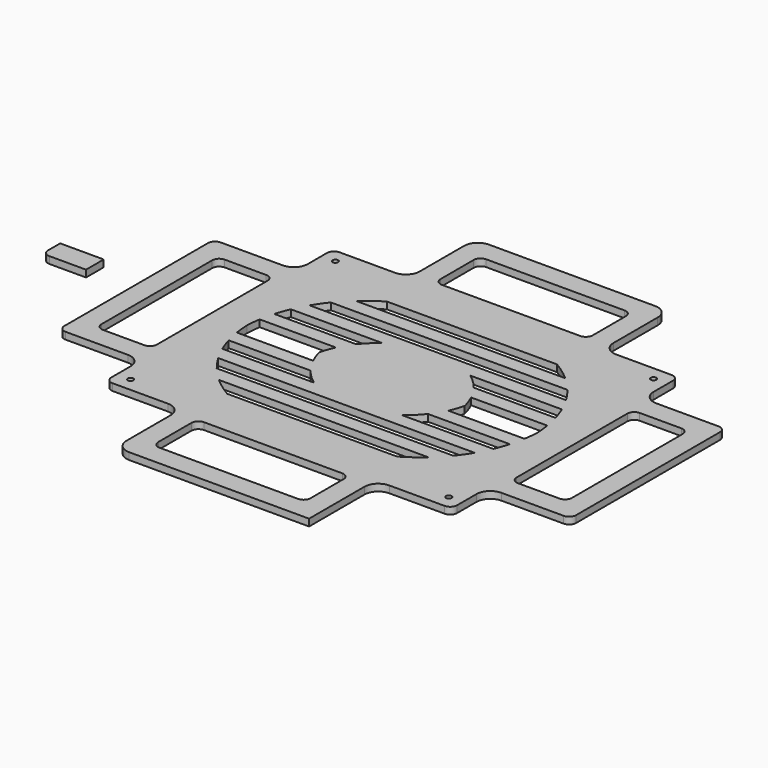
from build123d import *

# Parameters (mm, degrees)
F0_R     = 2
F1_DEPTH = 5


with BuildPart() as f1:
    # F0 (on Top) → F1 (new body)
    with BuildSketch(Plane.XY):
        with BuildLine():
            Line((-195, 132.511114), (-230, 132.511114))
            Line((-230, 132.511114), (-235, 132.511114))
            ThreePointArc((-235, 132.511114), (-238.535534, 131.046648), (-240, 127.511114))
            Line((-240, 127.511114), (-240, 110.011114))
            ThreePointArc((-240, 110.011114), (-242.928932, 102.940046), (-250, 100.011114))
            Line((-250, 100.011114), (-290, 100.011114))
            Line((-290, 100.011114), (-295, 100.011114))
            ThreePointArc((-295, 100.011114), (-298.535534, 98.546648), (-300, 95.011114))
            Line((-300, 95.011114), (-300, -34.988886))
            ThreePointArc((-300, -34.988886), (-298.535534, -38.52442), (-295, -39.988886))
            Line((-295, -39.988886), (-290, -39.988886))
            Line((-290, -39.988886), (-271.565944, -39.988886))
            Line((-271.565944, -39.988886), (-250, -39.988886))
            ThreePointArc((-250, -39.988886), (-242.928932, -42.917818), (-240, -49.988886))
            Line((-240, -49.988886), (-240, -67.488886))
            ThreePointArc((-240, -67.488886), (-238.535534, -71.02442), (-235, -72.488886))
            Line((-235, -72.488886), (-195, -72.488886))
            ThreePointArc((-195, -72.488886), (-187.928932, -75.417818), (-185, -82.488886))
            Line((-185, -82.488886), (-185, -122.488886))
            ThreePointArc((-185, -122.488886), (-182.071068, -129.559954), (-175, -132.488886))
            Line((-175, -132.488886), (-115, -132.488886))
            Line((-115, -132.488886), (-55, -132.488886))
            ThreePointArc((-55, -132.488886), (-47.928932, -129.559954), (-45, -122.488886))
            Line((-45, -122.488886), (-45, -82.488886))
            ThreePointArc((-45, -82.488886), (-42.071068, -75.417818), (-35, -72.488886))
            Line((-35, -72.488886), (5, -72.488886))
            ThreePointArc((5, -72.488886), (8.535534, -71.02442), (10, -67.488886))
            Line((10, -67.488886), (10, -49.988886))
            ThreePointArc((10, -49.988886), (12.928932, -42.917818), (20, -39.988886))
            Line((20, -39.988886), (41.565944, -39.988886))
            Line((41.565944, -39.988886), (60, -39.988886))
            Line((60, -39.988886), (65, -39.988886))
            ThreePointArc((65, -39.988886), (68.535534, -38.52442), (70, -34.988886))
            Line((70, -34.988886), (70, 95.011114))
            ThreePointArc((70, 95.011114), (68.535534, 98.546648), (65, 100.011114))
            Line((65, 100.011114), (60, 100.011114))
            Line((60, 100.011114), (20, 100.011114))
            ThreePointArc((20, 100.011114), (12.928932, 102.940046), (10, 110.011114))
            Line((10, 110.011114), (10, 127.511114))
            ThreePointArc((10, 127.511114), (8.535534, 131.046648), (5, 132.511114))
            Line((5, 132.511114), (0, 132.511114))
            Line((0, 132.511114), (-35, 132.511114))
            ThreePointArc((-35, 132.511114), (-42.071068, 135.440046), (-45, 142.511114))
            Line((-45, 142.511114), (-45, 182.511114))
            ThreePointArc((-45, 182.511114), (-47.928932, 189.582182), (-55, 192.511114))
            Line((-55, 192.511114), (-115, 192.511114))
            Line((-115, 192.511114), (-175, 192.511114))
            ThreePointArc((-175, 192.511114), (-182.071068, 189.582182), (-185, 182.511114))
            Line((-185, 182.511114), (-185, 142.511114))
            ThreePointArc((-185, 142.511114), (-187.928932, 135.440046), (-195, 132.511114))
        make_face()
        with Locations((-230, -62.488886)):
            Circle(F0_R, mode=Mode.SUBTRACT)
        with BuildLine():
            ThreePointArc((-280, -24.988886), (-283.535534, -23.52442), (-285, -19.988886))
            Line((-285, -19.988886), (-285, 80.011114))
            ThreePointArc((-285, 80.011114), (-283.535534, 83.546648), (-280, 85.011114))
            Line((-280, 85.011114), (-250, 85.011114))
            ThreePointArc((-250, 85.011114), (-246.464466, 83.546648), (-245, 80.011114))
            Line((-245, 80.011114), (-245, 68.697795))
            Line((-245, 68.697795), (-245, -19.988886))
            ThreePointArc((-245, -19.988886), (-246.464466, -23.52442), (-250, -24.988886))
            Line((-250, -24.988886), (-280, -24.988886))
        make_face(mode=Mode.SUBTRACT)
        with BuildLine():
            ThreePointArc((-212.941912, -0.926386), (-214.946177, 4.17242), (-216.62912, 9.386114))
            Line((-216.62912, 9.386114), (-167.5, 9.386114))
            Line((-167.5, 9.386114), (-157.467819, 9.386114))
            ThreePointArc((-157.467819, 9.386114), (-152.46576, 3.859363), (-146.750677, -0.926386))
            Line((-146.750677, -0.926386), (-167.5, -0.926386))
            Line((-167.5, -0.926386), (-212.941912, -0.926386))
        make_face(mode=Mode.SUBTRACT)
        with BuildLine():
            Line((-167.5, 19.698614), (-218.945661, 19.698614))
            ThreePointArc((-218.945661, 19.698614), (-219.624886, 24.839318), (-220, 30.011114))
            ThreePointArc((-220, 30.011114), (-219.624886, 35.18291), (-218.945661, 40.323614))
            Line((-218.945661, 40.323614), (-167.5, 40.323614))
            Line((-167.5, 40.323614), (-163.849058, 40.323614))
            ThreePointArc((-163.849058, 40.323614), (-165.936184, 35.259998), (-167.5, 30.011114))
            ThreePointArc((-167.5, 30.011114), (-165.936184, 24.76223), (-163.849058, 19.698614))
            Line((-163.849058, 19.698614), (-167.5, 19.698614))
        make_face(mode=Mode.SUBTRACT)
        with BuildLine():
            Line((-65, -117.488886), (-165, -117.488886))
            ThreePointArc((-165, -117.488886), (-168.535534, -116.02442), (-170, -112.488886))
            Line((-170, -112.488886), (-170, -82.488886))
            ThreePointArc((-170, -82.488886), (-168.535534, -78.953352), (-165, -77.488886))
            Line((-165, -77.488886), (-65, -77.488886))
            ThreePointArc((-65, -77.488886), (-61.464466, -78.953352), (-60, -82.488886))
            Line((-60, -82.488886), (-60, -112.488886))
            ThreePointArc((-60, -112.488886), (-61.464466, -116.02442), (-65, -117.488886))
        make_face(mode=Mode.SUBTRACT)
        with Locations((0, -62.488886)):
            Circle(F0_R, mode=Mode.SUBTRACT)
        with BuildLine():
            ThreePointArc((-176.466621, -42.176386), (-183.821785, -37.37496), (-190.661389, -31.863886))
            Line((-190.661389, -31.863886), (-115, -31.863886))
            Line((-115, -31.863886), (-39.338611, -31.863886))
            ThreePointArc((-39.338611, -31.863886), (-46.178215, -37.37496), (-53.533379, -42.176386))
            Line((-53.533379, -42.176386), (-115, -42.176386))
            Line((-115, -42.176386), (-176.466621, -42.176386))
        make_face(mode=Mode.SUBTRACT)
        with BuildLine():
            ThreePointArc((-200.49278, -21.551386), (-204.272698, -16.523777), (-207.683644, -11.238886))
            Line((-207.683644, -11.238886), (-167.5, -11.238886))
            Line((-167.5, -11.238886), (-115, -11.238886))
            Line((-115, -11.238886), (-62.5, -11.238886))
            Line((-62.5, -11.238886), (-22.316356, -11.238886))
            ThreePointArc((-22.316356, -11.238886), (-25.727302, -16.523777), (-29.50722, -21.551386))
            Line((-29.50722, -21.551386), (-115, -21.551386))
            Line((-115, -21.551386), (-200.49278, -21.551386))
        make_face(mode=Mode.SUBTRACT)
        with BuildLine():
            ThreePointArc((-83.249323, -0.926386), (-77.53424, 3.859363), (-72.532181, 9.386114))
            Line((-72.532181, 9.386114), (-62.5, 9.386114))
            Line((-62.5, 9.386114), (-13.37088, 9.386114))
            ThreePointArc((-13.37088, 9.386114), (-15.053823, 4.17242), (-17.058088, -0.926386))
            Line((-17.058088, -0.926386), (-62.5, -0.926386))
            Line((-62.5, -0.926386), (-83.249323, -0.926386))
        make_face(mode=Mode.SUBTRACT)
        with BuildLine():
            Line((-62.5, 19.698614), (-66.150942, 19.698614))
            ThreePointArc((-66.150942, 19.698614), (-64.063816, 24.76223), (-62.5, 30.011114))
            ThreePointArc((-62.5, 30.011114), (-64.063816, 35.259998), (-66.150942, 40.323614))
            Line((-66.150942, 40.323614), (-62.5, 40.323614))
            Line((-62.5, 40.323614), (-11.054339, 40.323614))
            ThreePointArc((-11.054339, 40.323614), (-10.375114, 35.18291), (-10, 30.011114))
            ThreePointArc((-10, 30.011114), (-10.375114, 24.839318), (-11.054339, 19.698614))
            Line((-11.054339, 19.698614), (-62.5, 19.698614))
        make_face(mode=Mode.SUBTRACT)
        with BuildLine():
            Line((50, -24.988886), (20, -24.988886))
            ThreePointArc((20, -24.988886), (16.464466, -23.52442), (15, -19.988886))
            Line((15, -19.988886), (15, 68.697795))
            Line((15, 68.697795), (15, 80.011114))
            ThreePointArc((15, 80.011114), (16.464466, 83.546648), (20, 85.011114))
            Line((20, 85.011114), (50, 85.011114))
            ThreePointArc((50, 85.011114), (53.535534, 83.546648), (55, 80.011114))
            Line((55, 80.011114), (55, -19.988886))
            ThreePointArc((55, -19.988886), (53.535534, -23.52442), (50, -24.988886))
        make_face(mode=Mode.SUBTRACT)
        with BuildLine():
            ThreePointArc((-216.62912, 50.636114), (-214.946177, 55.849808), (-212.941912, 60.948614))
            Line((-212.941912, 60.948614), (-167.5, 60.948614))
            Line((-167.5, 60.948614), (-146.750677, 60.948614))
            ThreePointArc((-146.750677, 60.948614), (-152.46576, 56.162865), (-157.467819, 50.636114))
            Line((-157.467819, 50.636114), (-167.5, 50.636114))
            Line((-167.5, 50.636114), (-216.62912, 50.636114))
        make_face(mode=Mode.SUBTRACT)
        with Locations((-230, 122.511114)):
            Circle(F0_R, mode=Mode.SUBTRACT)
        with BuildLine():
            Line((-62.5, 60.948614), (-17.058088, 60.948614))
            ThreePointArc((-17.058088, 60.948614), (-15.053823, 55.849808), (-13.37088, 50.636114))
            Line((-13.37088, 50.636114), (-62.5, 50.636114))
            Line((-62.5, 50.636114), (-72.532181, 50.636114))
            ThreePointArc((-72.532181, 50.636114), (-77.53424, 56.162865), (-83.249323, 60.948614))
            Line((-83.249323, 60.948614), (-62.5, 60.948614))
        make_face(mode=Mode.SUBTRACT)
        with BuildLine():
            Line((-167.5, 71.261114), (-207.683644, 71.261114))
            ThreePointArc((-207.683644, 71.261114), (-204.272698, 76.546006), (-200.49278, 81.573614))
            Line((-200.49278, 81.573614), (-115, 81.573614))
            Line((-115, 81.573614), (-29.50722, 81.573614))
            ThreePointArc((-29.50722, 81.573614), (-25.727302, 76.546006), (-22.316356, 71.261114))
            Line((-22.316356, 71.261114), (-62.5, 71.261114))
            Line((-62.5, 71.261114), (-115, 71.261114))
            Line((-115, 71.261114), (-167.5, 71.261114))
        make_face(mode=Mode.SUBTRACT)
        with BuildLine():
            ThreePointArc((-190.661389, 91.886114), (-183.821785, 97.397188), (-176.466621, 102.198614))
            Line((-176.466621, 102.198614), (-115, 102.198614))
            Line((-115, 102.198614), (-53.533379, 102.198614))
            ThreePointArc((-53.533379, 102.198614), (-46.178215, 97.397188), (-39.338611, 91.886114))
            Line((-39.338611, 91.886114), (-115, 91.886114))
            Line((-115, 91.886114), (-190.661389, 91.886114))
        make_face(mode=Mode.SUBTRACT)
        with BuildLine():
            Line((-170, 142.511114), (-170, 172.511114))
            ThreePointArc((-170, 172.511114), (-168.535534, 176.046648), (-165, 177.511114))
            Line((-165, 177.511114), (-65, 177.511114))
            ThreePointArc((-65, 177.511114), (-61.464466, 176.046648), (-60, 172.511114))
            Line((-60, 172.511114), (-60, 142.511114))
            ThreePointArc((-60, 142.511114), (-61.464466, 138.97558), (-65, 137.511114))
            Line((-65, 137.511114), (-165, 137.511114))
            ThreePointArc((-165, 137.511114), (-168.535534, 138.97558), (-170, 142.511114))
        make_face(mode=Mode.SUBTRACT)
        with Locations((0, 122.511114)):
            Circle(F0_R, mode=Mode.SUBTRACT)
        with BuildLine():
            ThreePointArc((-45, -122.488886), (-47.928932, -129.559954), (-55, -132.488886))
            Line((-55, -132.488886), (-45, -132.488886))
            Line((-45, -132.488886), (-45, -122.488886))
        make_face()
        with BuildLine():
            ThreePointArc((-364.925385, 31.536784), (-363.460918, 28.00125), (-359.925385, 26.536784))
            Line((-359.925385, 26.536784), (-333.444332, 26.536784))
            Line((-333.444332, 26.536784), (-333.444332, 42.530593))
            Line((-333.444332, 42.530593), (-364.925385, 42.530593))
            Line((-364.925385, 42.530593), (-364.925385, 31.536784))
        make_face()
        with BuildLine():
            Line((-195, 132.511114), (-230, 132.511114))
            Line((-230, 132.511114), (-235, 132.511114))
            ThreePointArc((-235, 132.511114), (-238.535534, 131.046648), (-240, 127.511114))
            Line((-240, 127.511114), (-240, 110.011114))
            ThreePointArc((-240, 110.011114), (-242.928932, 102.940046), (-250, 100.011114))
            Line((-250, 100.011114), (-290, 100.011114))
            Line((-290, 100.011114), (-295, 100.011114))
            ThreePointArc((-295, 100.011114), (-298.535534, 98.546648), (-300, 95.011114))
            Line((-300, 95.011114), (-300, -34.988886))
            ThreePointArc((-300, -34.988886), (-298.535534, -38.52442), (-295, -39.988886))
            Line((-295, -39.988886), (-290, -39.988886))
            Line((-290, -39.988886), (-271.565944, -39.988886))
            Line((-271.565944, -39.988886), (-250, -39.988886))
            ThreePointArc((-250, -39.988886), (-242.928932, -42.917818), (-240, -49.988886))
            Line((-240, -49.988886), (-240, -67.488886))
            ThreePointArc((-240, -67.488886), (-238.535534, -71.02442), (-235, -72.488886))
            Line((-235, -72.488886), (-195, -72.488886))
            ThreePointArc((-195, -72.488886), (-187.928932, -75.417818), (-185, -82.488886))
            Line((-185, -82.488886), (-185, -122.488886))
            ThreePointArc((-185, -122.488886), (-182.071068, -129.559954), (-175, -132.488886))
            Line((-175, -132.488886), (-115, -132.488886))
            Line((-115, -132.488886), (-55, -132.488886))
            ThreePointArc((-55, -132.488886), (-47.928932, -129.559954), (-45, -122.488886))
            Line((-45, -122.488886), (-45, -82.488886))
            ThreePointArc((-45, -82.488886), (-42.071068, -75.417818), (-35, -72.488886))
            Line((-35, -72.488886), (5, -72.488886))
            ThreePointArc((5, -72.488886), (8.535534, -71.02442), (10, -67.488886))
            Line((10, -67.488886), (10, -49.988886))
            ThreePointArc((10, -49.988886), (12.928932, -42.917818), (20, -39.988886))
            Line((20, -39.988886), (41.565944, -39.988886))
            Line((41.565944, -39.988886), (60, -39.988886))
            Line((60, -39.988886), (65, -39.988886))
            ThreePointArc((65, -39.988886), (68.535534, -38.52442), (70, -34.988886))
            Line((70, -34.988886), (70, 95.011114))
            ThreePointArc((70, 95.011114), (68.535534, 98.546648), (65, 100.011114))
            Line((65, 100.011114), (60, 100.011114))
            Line((60, 100.011114), (20, 100.011114))
            ThreePointArc((20, 100.011114), (12.928932, 102.940046), (10, 110.011114))
            Line((10, 110.011114), (10, 127.511114))
            ThreePointArc((10, 127.511114), (8.535534, 131.046648), (5, 132.511114))
            Line((5, 132.511114), (0, 132.511114))
            Line((0, 132.511114), (-35, 132.511114))
            ThreePointArc((-35, 132.511114), (-42.071068, 135.440046), (-45, 142.511114))
            Line((-45, 142.511114), (-45, 182.511114))
            ThreePointArc((-45, 182.511114), (-47.928932, 189.582182), (-55, 192.511114))
            Line((-55, 192.511114), (-115, 192.511114))
            Line((-115, 192.511114), (-175, 192.511114))
            ThreePointArc((-175, 192.511114), (-182.071068, 189.582182), (-185, 182.511114))
            Line((-185, 182.511114), (-185, 142.511114))
            ThreePointArc((-185, 142.511114), (-187.928932, 135.440046), (-195, 132.511114))
        make_face()
        with Locations((-230, -62.488886)):
            Circle(F0_R, mode=Mode.SUBTRACT)
        with BuildLine():
            ThreePointArc((-280, -24.988886), (-283.535534, -23.52442), (-285, -19.988886))
            Line((-285, -19.988886), (-285, 80.011114))
            ThreePointArc((-285, 80.011114), (-283.535534, 83.546648), (-280, 85.011114))
            Line((-280, 85.011114), (-250, 85.011114))
            ThreePointArc((-250, 85.011114), (-246.464466, 83.546648), (-245, 80.011114))
            Line((-245, 80.011114), (-245, 68.697795))
            Line((-245, 68.697795), (-245, -19.988886))
            ThreePointArc((-245, -19.988886), (-246.464466, -23.52442), (-250, -24.988886))
            Line((-250, -24.988886), (-280, -24.988886))
        make_face(mode=Mode.SUBTRACT)
        with BuildLine():
            ThreePointArc((-212.941912, -0.926386), (-214.946177, 4.17242), (-216.62912, 9.386114))
            Line((-216.62912, 9.386114), (-167.5, 9.386114))
            Line((-167.5, 9.386114), (-157.467819, 9.386114))
            ThreePointArc((-157.467819, 9.386114), (-152.46576, 3.859363), (-146.750677, -0.926386))
            Line((-146.750677, -0.926386), (-167.5, -0.926386))
            Line((-167.5, -0.926386), (-212.941912, -0.926386))
        make_face(mode=Mode.SUBTRACT)
        with BuildLine():
            Line((-167.5, 19.698614), (-218.945661, 19.698614))
            ThreePointArc((-218.945661, 19.698614), (-219.624886, 24.839318), (-220, 30.011114))
            ThreePointArc((-220, 30.011114), (-219.624886, 35.18291), (-218.945661, 40.323614))
            Line((-218.945661, 40.323614), (-167.5, 40.323614))
            Line((-167.5, 40.323614), (-163.849058, 40.323614))
            ThreePointArc((-163.849058, 40.323614), (-165.936184, 35.259998), (-167.5, 30.011114))
            ThreePointArc((-167.5, 30.011114), (-165.936184, 24.76223), (-163.849058, 19.698614))
            Line((-163.849058, 19.698614), (-167.5, 19.698614))
        make_face(mode=Mode.SUBTRACT)
        with BuildLine():
            Line((-65, -117.488886), (-165, -117.488886))
            ThreePointArc((-165, -117.488886), (-168.535534, -116.02442), (-170, -112.488886))
            Line((-170, -112.488886), (-170, -82.488886))
            ThreePointArc((-170, -82.488886), (-168.535534, -78.953352), (-165, -77.488886))
            Line((-165, -77.488886), (-65, -77.488886))
            ThreePointArc((-65, -77.488886), (-61.464466, -78.953352), (-60, -82.488886))
            Line((-60, -82.488886), (-60, -112.488886))
            ThreePointArc((-60, -112.488886), (-61.464466, -116.02442), (-65, -117.488886))
        make_face(mode=Mode.SUBTRACT)
        with Locations((0, -62.488886)):
            Circle(F0_R, mode=Mode.SUBTRACT)
        with BuildLine():
            ThreePointArc((-176.466621, -42.176386), (-183.821785, -37.37496), (-190.661389, -31.863886))
            Line((-190.661389, -31.863886), (-115, -31.863886))
            Line((-115, -31.863886), (-39.338611, -31.863886))
            ThreePointArc((-39.338611, -31.863886), (-46.178215, -37.37496), (-53.533379, -42.176386))
            Line((-53.533379, -42.176386), (-115, -42.176386))
            Line((-115, -42.176386), (-176.466621, -42.176386))
        make_face(mode=Mode.SUBTRACT)
        with BuildLine():
            ThreePointArc((-200.49278, -21.551386), (-204.272698, -16.523777), (-207.683644, -11.238886))
            Line((-207.683644, -11.238886), (-167.5, -11.238886))
            Line((-167.5, -11.238886), (-115, -11.238886))
            Line((-115, -11.238886), (-62.5, -11.238886))
            Line((-62.5, -11.238886), (-22.316356, -11.238886))
            ThreePointArc((-22.316356, -11.238886), (-25.727302, -16.523777), (-29.50722, -21.551386))
            Line((-29.50722, -21.551386), (-115, -21.551386))
            Line((-115, -21.551386), (-200.49278, -21.551386))
        make_face(mode=Mode.SUBTRACT)
        with BuildLine():
            ThreePointArc((-83.249323, -0.926386), (-77.53424, 3.859363), (-72.532181, 9.386114))
            Line((-72.532181, 9.386114), (-62.5, 9.386114))
            Line((-62.5, 9.386114), (-13.37088, 9.386114))
            ThreePointArc((-13.37088, 9.386114), (-15.053823, 4.17242), (-17.058088, -0.926386))
            Line((-17.058088, -0.926386), (-62.5, -0.926386))
            Line((-62.5, -0.926386), (-83.249323, -0.926386))
        make_face(mode=Mode.SUBTRACT)
        with BuildLine():
            Line((-62.5, 19.698614), (-66.150942, 19.698614))
            ThreePointArc((-66.150942, 19.698614), (-64.063816, 24.76223), (-62.5, 30.011114))
            ThreePointArc((-62.5, 30.011114), (-64.063816, 35.259998), (-66.150942, 40.323614))
            Line((-66.150942, 40.323614), (-62.5, 40.323614))
            Line((-62.5, 40.323614), (-11.054339, 40.323614))
            ThreePointArc((-11.054339, 40.323614), (-10.375114, 35.18291), (-10, 30.011114))
            ThreePointArc((-10, 30.011114), (-10.375114, 24.839318), (-11.054339, 19.698614))
            Line((-11.054339, 19.698614), (-62.5, 19.698614))
        make_face(mode=Mode.SUBTRACT)
        with BuildLine():
            Line((50, -24.988886), (20, -24.988886))
            ThreePointArc((20, -24.988886), (16.464466, -23.52442), (15, -19.988886))
            Line((15, -19.988886), (15, 68.697795))
            Line((15, 68.697795), (15, 80.011114))
            ThreePointArc((15, 80.011114), (16.464466, 83.546648), (20, 85.011114))
            Line((20, 85.011114), (50, 85.011114))
            ThreePointArc((50, 85.011114), (53.535534, 83.546648), (55, 80.011114))
            Line((55, 80.011114), (55, -19.988886))
            ThreePointArc((55, -19.988886), (53.535534, -23.52442), (50, -24.988886))
        make_face(mode=Mode.SUBTRACT)
        with BuildLine():
            ThreePointArc((-216.62912, 50.636114), (-214.946177, 55.849808), (-212.941912, 60.948614))
            Line((-212.941912, 60.948614), (-167.5, 60.948614))
            Line((-167.5, 60.948614), (-146.750677, 60.948614))
            ThreePointArc((-146.750677, 60.948614), (-152.46576, 56.162865), (-157.467819, 50.636114))
            Line((-157.467819, 50.636114), (-167.5, 50.636114))
            Line((-167.5, 50.636114), (-216.62912, 50.636114))
        make_face(mode=Mode.SUBTRACT)
        with Locations((-230, 122.511114)):
            Circle(F0_R, mode=Mode.SUBTRACT)
        with BuildLine():
            Line((-62.5, 60.948614), (-17.058088, 60.948614))
            ThreePointArc((-17.058088, 60.948614), (-15.053823, 55.849808), (-13.37088, 50.636114))
            Line((-13.37088, 50.636114), (-62.5, 50.636114))
            Line((-62.5, 50.636114), (-72.532181, 50.636114))
            ThreePointArc((-72.532181, 50.636114), (-77.53424, 56.162865), (-83.249323, 60.948614))
            Line((-83.249323, 60.948614), (-62.5, 60.948614))
        make_face(mode=Mode.SUBTRACT)
        with BuildLine():
            Line((-167.5, 71.261114), (-207.683644, 71.261114))
            ThreePointArc((-207.683644, 71.261114), (-204.272698, 76.546006), (-200.49278, 81.573614))
            Line((-200.49278, 81.573614), (-115, 81.573614))
            Line((-115, 81.573614), (-29.50722, 81.573614))
            ThreePointArc((-29.50722, 81.573614), (-25.727302, 76.546006), (-22.316356, 71.261114))
            Line((-22.316356, 71.261114), (-62.5, 71.261114))
            Line((-62.5, 71.261114), (-115, 71.261114))
            Line((-115, 71.261114), (-167.5, 71.261114))
        make_face(mode=Mode.SUBTRACT)
        with BuildLine():
            ThreePointArc((-190.661389, 91.886114), (-183.821785, 97.397188), (-176.466621, 102.198614))
            Line((-176.466621, 102.198614), (-115, 102.198614))
            Line((-115, 102.198614), (-53.533379, 102.198614))
            ThreePointArc((-53.533379, 102.198614), (-46.178215, 97.397188), (-39.338611, 91.886114))
            Line((-39.338611, 91.886114), (-115, 91.886114))
            Line((-115, 91.886114), (-190.661389, 91.886114))
        make_face(mode=Mode.SUBTRACT)
        with BuildLine():
            Line((-170, 142.511114), (-170, 172.511114))
            ThreePointArc((-170, 172.511114), (-168.535534, 176.046648), (-165, 177.511114))
            Line((-165, 177.511114), (-65, 177.511114))
            ThreePointArc((-65, 177.511114), (-61.464466, 176.046648), (-60, 172.511114))
            Line((-60, 172.511114), (-60, 142.511114))
            ThreePointArc((-60, 142.511114), (-61.464466, 138.97558), (-65, 137.511114))
            Line((-65, 137.511114), (-165, 137.511114))
            ThreePointArc((-165, 137.511114), (-168.535534, 138.97558), (-170, 142.511114))
        make_face(mode=Mode.SUBTRACT)
        with Locations((0, 122.511114)):
            Circle(F0_R, mode=Mode.SUBTRACT)
    extrude(amount=F1_DEPTH)


solid = f1.part
